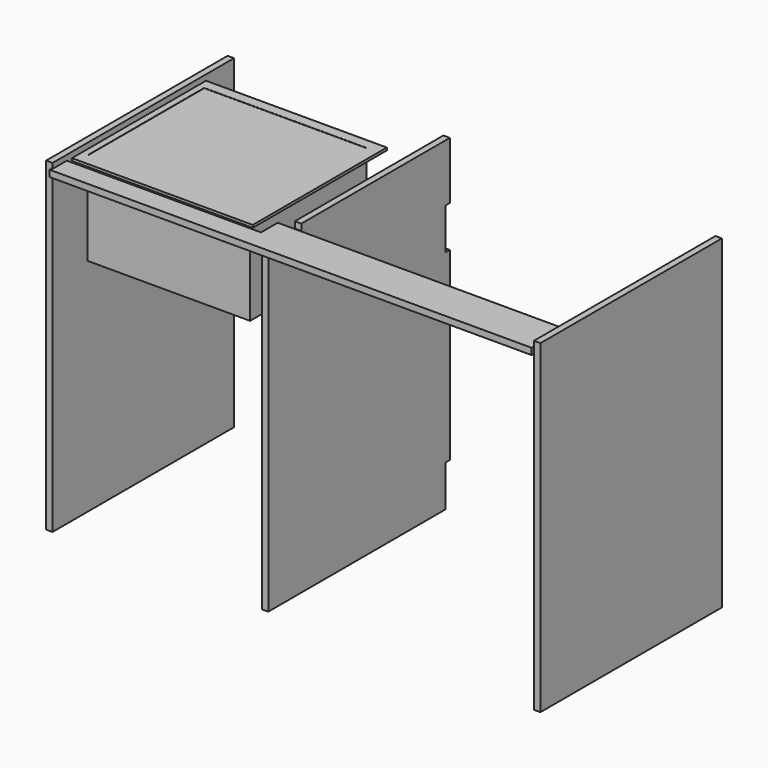
from build123d import *

# Parameters (mm, degrees)
F0_W      = 558.8
F0_H      = 800.1
F1_DEPTH  = 15.875
F4_W      = 101.6
F4_H      = 15.875
F5_DEPTH  = 25.4
F6_W      = 1187.45
F6_H      = 15.875
F7_DEPTH  = 101.6
F9_W      = 12.7
F9_H      = 101.6
F10_DEPTH = 19.685
F11_W     = 12.7
F11_H     = 101.6
F12_DEPTH = 19.05
F13_W     = 480.802878
F13_H     = 51.396585
F14_DEPTH = 787.132196
F15_W     = 457.2
F15_H     = 412.75
F15_W_2   = 400.05
F15_H_2   = 358.775
F16_DEPTH = 6.35
F17_W     = 400.05
F17_H     = 358.775
F18_DEPTH = 228.6


with BuildPart() as f1:
    # F0 (on Right) → F1 (new body)
    with BuildSketch(Plane.YZ):
        with Locations((-6.598387, 65.153251)):
            Rectangle(F0_W, F0_H)
    extrude(amount=F1_DEPTH)


with BuildPart() as f2_1:
    # F2: copy of F1
    add(f1.part.moved(Location((1219.2, 0, 0))))


with BuildPart() as f3_1:
    # F3: copy of F1
    add(f1.part.moved(Location((508, 0, 0))))

    # F4 (on face) → F5 (cut, symmetric)
    with BuildSketch(Plane.YZ.offset(523.875)):
        with Locations((-235.198387, 457.265751)):
            Rectangle(F4_W, F4_H)
    extrude(amount=F5_DEPTH, both=True, mode=Mode.SUBTRACT)

    # F9 (on face) → F10 (cut, symmetric)
    with BuildSketch(Plane.YZ.offset(523.875)):
        with Locations((266.451613, -284.096749)):
            Rectangle(F9_W, F9_H)
    extrude(amount=F10_DEPTH, both=True, mode=Mode.SUBTRACT)

    # F11 (on face) → F12 (cut, symmetric)
    with BuildSketch(Plane.YZ.offset(523.875)):
        with Locations((266.451613, 273.129399)):
            Rectangle(F11_W, F11_H)
    extrude(amount=F12_DEPTH, both=True, mode=Mode.SUBTRACT)


with BuildPart() as f7:
    # F6 (on Front) → F7 (new body)
    with BuildSketch(Plane.XZ):
        with Locations((609.531362, 444.296947)):
            Rectangle(F6_W, F6_H)
    extrude(amount=-F7_DEPTH)


with BuildPart() as f7_1:
    # F8: moved
    add(f7.part.moved(Location((10.16, -292.1, 0))))

    # F13 (on face) → F14 (cut, through all)
    with BuildSketch(Plane.XY.offset(452.234447)):
        with Locations((266.367801, -216.198292)):
            Rectangle(F13_W, F13_H)
    extrude(amount=-F14_DEPTH, mode=Mode.SUBTRACT)


with BuildPart() as f16:
    # F15 (on Top) → F16 (new body)
    with BuildSketch(Plane.XY):
        with Locations((299.197815, 22.671892)):
            Rectangle(F15_W, F15_H)
        with Locations((298.478387, 24.027993)):
            Rectangle(F15_W_2, F15_H_2, mode=Mode.SUBTRACT)
    extrude(amount=-F16_DEPTH)

    # F17 (on face) → F18 (join)
    with BuildSketch(Plane.XY):
        with Locations((299.218901, 23.198729)):
            Rectangle(F17_W, F17_H)
    extrude(amount=-F18_DEPTH)


with BuildPart() as f16_1:
    # F19: moved
    add(f16.part.moved(Location((0, 0, 451.39408))))


with BuildPart() as f16_2:
    # F20: moved
    add(f16_1.part.moved(Location((-39.77021, 0, 0))))


with BuildPart() as f16_3:
    # F21: moved
    add(f16_2.part.moved(Location((0, -42.51238, 0))))


with BuildPart() as f3_1_1:
    # F22: moved
    add(f3_1.part.moved(Location((35.99163, 0, 0))))


with BuildPart() as f16_4:
    # F23: moved
    add(f16_3.part.moved(Location((-14.21232, 0, 0))))


with BuildPart() as f2_1_1:
    # F24: moved
    add(f2_1.part.moved(Location((-5.09073, 0, 0))))


with BuildPart() as f1_1:
    # F25: moved
    add(f1.part.moved(Location((12.62607, 0, 0))))


solid = Compound([f7_1.part, f3_1_1.part, f16_4.part, f2_1_1.part, f1_1.part])
